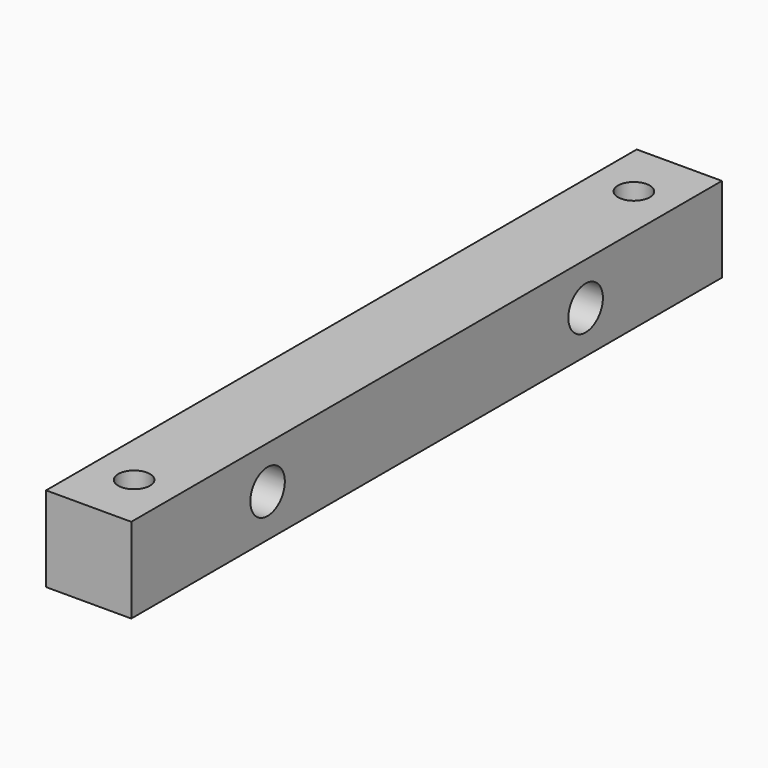
from build123d import *

# Parameters (mm, degrees)
F0_W     = 9.525
F0_H     = 9.525
F1_DEPTH = 41.275
F2_R     = 1.778
F3_DEPTH = 9.525
F4_R     = 2.413
F5_DEPTH = 9.525


with BuildPart() as f1:
    # F0 (on Front) → F1 (new body, symmetric)
    with BuildSketch(Plane.XZ):
        Rectangle(F0_W, F0_H)
    extrude(amount=F1_DEPTH, both=True)

    # F2 (on face) → F3 (cut)
    with BuildSketch(Plane.XY.offset(4.7625)):
        with Locations((0, -34.925)):
            Circle(F2_R)
        with Locations((0, 34.925)):
            Circle(F2_R)
    extrude(amount=-F3_DEPTH, mode=Mode.SUBTRACT)

    # F4 (on face) → F5 (cut)
    with BuildSketch(Plane.YZ.offset(4.7625)):
        with Locations((-22.225, 0)):
            Circle(F4_R)
        with Locations((22.225, 0)):
            Circle(F4_R)
    extrude(amount=-F5_DEPTH, mode=Mode.SUBTRACT)


solid = f1.part
